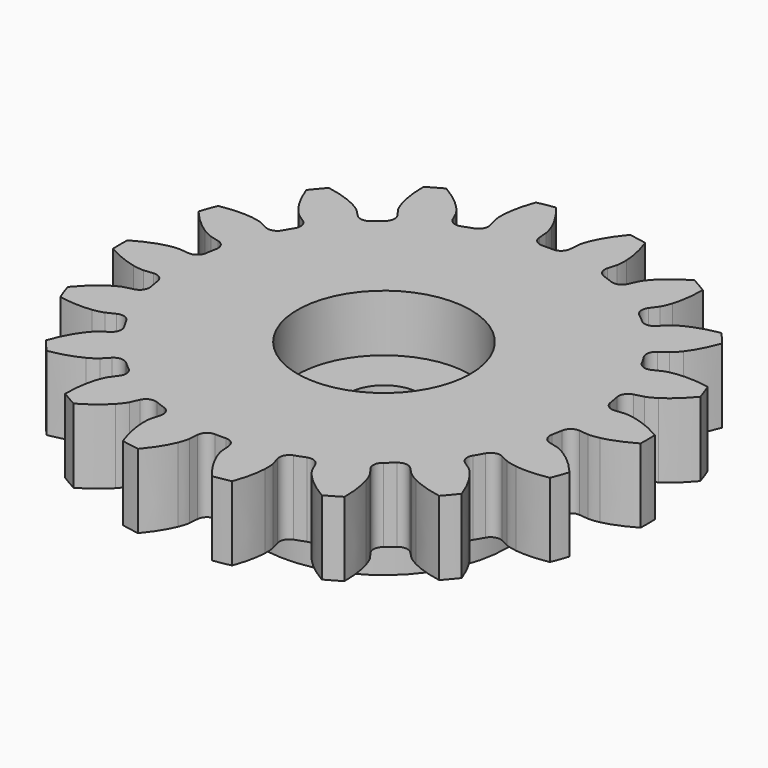
from build123d import *

# Parameters (mm, degrees)
CYLINDER004_R     = 1.45
CYLINDER004_DEPTH = 10
CYLINDER003_R     = 3.5
CYLINDER003_DEPTH = 2.3
CYLINDER_R        = 1.45
CYLINDER_DEPTH    = 10
EXTRUDE_DEPTH     = 3
CYLINDER002_R     = 2.5
CYLINDER002_DEPTH = 2.7
CYLINDER001_R     = 5
CYLINDER001_DEPTH = 2.7


with BuildPart() as obj1:
    # Cylinder004 → Cylinder004 (new body)
    with BuildSketch(Plane.XY.offset(-2)):
        Circle(CYLINDER004_R)
    extrude(amount=CYLINDER004_DEPTH)


with BuildPart() as cilindro_superior:
    # Cylinder003 → Cylinder003 (new body)
    with BuildSketch(Plane.XY.offset(0.7)):
        Circle(CYLINDER003_R)
    extrude(amount=CYLINDER003_DEPTH)


with BuildPart() as cilindro:
    # Cylinder → Cylinder (new body)
    with BuildSketch(Plane.XY.offset(-2)):
        Circle(CYLINDER_R)
    extrude(amount=CYLINDER_DEPTH)


with BuildPart() as cut002:
    # InvoluteGear → Extrude (new body)
    with BuildSketch(Plane.XY):
        with BuildLine():
            Line((8.612552, -0.883027), (8.992822, -0.921204))
            add(Edge.make_bspline(
                [(8.992822, -0.921204), (9.041564, -0.923074), (9.188211, -0.922532), (9.433139, -0.86888)],
                knots=[0, 0, 0, 0, 1, 1, 1, 1], degree=3))
            add(Edge.make_bspline(
                [(9.433139, -0.86888), (9.725891, -0.803665), (10.146415, -0.663171), (10.662031, -0.363025)],
                knots=[0, 0, 0, 0, 1, 1, 1, 1], degree=3))
            ThreePointArc((10.662031, -0.363025), (10.66821, 0), (10.662031, 0.363025))
            add(Edge.make_bspline(
                [(10.662031, 0.363025), (10.146415, 0.663171), (9.725891, 0.803665), (9.433139, 0.86888)],
                knots=[0, 0, 0, 0, 1, 1, 1, 1], degree=3))
            add(Edge.make_bspline(
                [(9.433139, 0.86888), (9.188211, 0.922532), (9.041564, 0.923074), (8.992822, 0.921204)],
                knots=[0, 0, 0, 0, 1, 1, 1, 1], degree=3))
            Line((8.992822, 0.921204), (8.612552, 0.883027))
            ThreePointArc((8.612552, 0.883027), (8.326615, 0.964857), (8.176195, 1.22143))
            ThreePointArc((8.176195, 1.22143), (8.141332, 1.435536), (8.100863, 1.648654))
            ThreePointArc((8.100863, 1.648654), (8.154459, 1.941201), (8.395165, 2.115893))
            Line((8.395165, 2.115893), (8.765559, 2.210078))
            add(Edge.make_bspline(
                [(8.765559, 2.210078), (8.812001, 2.224991), (8.949619, 2.275657), (9.161426, 2.409844)],
                knots=[0, 0, 0, 0, 1, 1, 1, 1], degree=3))
            add(Edge.make_bspline(
                [(9.161426, 2.409844), (9.414218, 2.571253), (9.761329, 2.847101), (10.143193, 3.305497)],
                knots=[0, 0, 0, 0, 1, 1, 1, 1], degree=3))
            ThreePointArc((10.143193, 3.305497), (10.024838, 3.648743), (9.89487, 3.987761))
            add(Edge.make_bspline(
                [(9.89487, 3.987761), (9.307694, 4.093455), (8.864479, 4.081649), (8.567077, 4.042804)],
                knots=[0, 0, 0, 0, 1, 1, 1, 1], degree=3))
            add(Edge.make_bspline(
                [(8.567077, 4.042804), (8.31857, 4.00945), (8.180581, 3.959803), (8.135418, 3.941375)],
                knots=[0, 0, 0, 0, 1, 1, 1, 1], degree=3))
            Line((8.135418, 3.941375), (7.791139, 3.77544))
            ThreePointArc((7.791139, 3.77544), (7.494458, 3.754539), (7.265356, 3.944192))
            ThreePointArc((7.265356, 3.944192), (7.159367, 4.133462), (7.048449, 4.319887))
            ThreePointArc((7.048449, 4.319887), (6.998755, 4.613122), (7.165196, 4.859604))
            Line((7.165196, 4.859604), (7.48104, 5.074791))
            add(Edge.make_bspline(
                [(7.48104, 5.074791), (7.519581, 5.104689), (7.63157, 5.199368), (7.784709, 5.397905)],
                knots=[0, 0, 0, 0, 1, 1, 1, 1], degree=3))
            add(Edge.make_bspline(
                [(7.784709, 5.397905), (7.967051, 5.636039), (8.198883, 6.013971), (8.400937, 6.575328)],
                knots=[0, 0, 0, 0, 1, 1, 1, 1], degree=3))
            ThreePointArc((8.400937, 6.575328), (8.172323, 6.857393), (7.934241, 7.131515))
            add(Edge.make_bspline(
                [(7.934241, 7.131515), (7.346327, 7.030008), (6.933879, 6.867326), (6.667699, 6.729106)],
                knots=[0, 0, 0, 0, 1, 1, 1, 1], degree=3))
            add(Edge.make_bspline(
                [(6.667699, 6.729106), (6.445586, 6.612769), (6.332899, 6.518921), (6.296763, 6.486158)],
                knots=[0, 0, 0, 0, 1, 1, 1, 1], degree=3))
            Line((6.296763, 6.486158), (6.029999, 6.21248))
            ThreePointArc((6.029999, 6.21248), (5.758359, 6.091368), (5.478208, 6.191226))
            ThreePointArc((5.478208, 6.191226), (5.313877, 6.332832), (5.145887, 6.470077))
            ThreePointArc((5.145887, 6.470077), (4.998898, 6.728632), (5.071, 7.017176))
            Line((5.071, 7.017176), (5.294197, 7.32741))
            add(Edge.make_bspline(
                [(5.294197, 7.32741), (5.320188, 7.368687), (5.393042, 7.495958), (5.469042, 7.734898)],
                knots=[0, 0, 0, 0, 1, 1, 1, 1], degree=3))
            add(Edge.make_bspline(
                [(5.469042, 7.734898), (5.55894, 8.021037), (5.647531, 8.455468), (5.645404, 9.052077)],
                knots=[0, 0, 0, 0, 1, 1, 1, 1], degree=3))
            ThreePointArc((5.645404, 9.052077), (5.334105, 9.238941), (5.016626, 9.415102))
            add(Edge.make_bspline(
                [(5.016626, 9.415102), (4.498885, 9.118639), (4.166951, 8.824702), (3.964098, 8.603778)],
                knots=[0, 0, 0, 0, 1, 1, 1, 1], degree=3))
            add(Edge.make_bspline(
                [(3.964098, 8.603778), (3.79517, 8.41849), (3.721376, 8.291761), (3.698625, 8.248614)],
                knots=[0, 0, 0, 0, 1, 1, 1, 1], degree=3))
            Line((3.698625, 8.248614), (3.541553, 7.900202))
            ThreePointArc((3.541553, 7.900202), (3.327717, 7.693488), (3.030308, 7.691507))
            ThreePointArc((3.030308, 7.691507), (2.827455, 7.768368), (2.622655, 7.839881))
            ThreePointArc((2.622655, 7.839881), (2.3961, 8.032569), (2.365165, 8.328372))
            Line((2.365165, 8.328372), (2.468796, 8.696235))
            add(Edge.make_bspline(
                [(2.468796, 8.696235), (2.479102, 8.743912), (2.504033, 8.888426), (2.493727, 9.138949)],
                knots=[0, 0, 0, 0, 1, 1, 1, 1], degree=3))
            add(Edge.make_bspline(
                [(2.493727, 9.138949), (2.480339, 9.438578), (2.415003, 9.87711), (2.208952, 10.437012)],
                knots=[0, 0, 0, 0, 1, 1, 1, 1], degree=3))
            ThreePointArc((2.208952, 10.437012), (1.852515, 10.506136), (1.493932, 10.563089))
            add(Edge.make_bspline(
                [(1.493932, 10.563089), (1.10881, 10.107427), (0.897428, 9.717688), (0.782368, 9.440708)],
                knots=[0, 0, 0, 0, 1, 1, 1, 1], degree=3))
            add(Edge.make_bspline(
                [(0.782368, 9.440708), (0.687, 9.208818), (0.661, 9.064492), (0.654378, 9.016166)],
                knots=[0, 0, 0, 0, 1, 1, 1, 1], degree=3))
            Line((0.654378, 9.016166), (0.625943, 8.635044))
            ThreePointArc((0.625943, 8.635044), (0.495703, 8.36766), (0.216907, 8.264079))
            ThreePointArc((0.216907, 8.264079), (0, 8.266925), (-0.216907, 8.264079))
            ThreePointArc((-0.216907, 8.264079), (-0.495703, 8.36766), (-0.625943, 8.635044))
            Line((-0.625943, 8.635044), (-0.654378, 9.016166))
            add(Edge.make_bspline(
                [(-0.654378, 9.016166), (-0.661, 9.064492), (-0.687, 9.208818), (-0.782368, 9.440708)],
                knots=[0, 0, 0, 0, 1, 1, 1, 1], degree=3))
            add(Edge.make_bspline(
                [(-0.782368, 9.440708), (-0.897428, 9.717688), (-1.10881, 10.107427), (-1.493932, 10.563089)],
                knots=[0, 0, 0, 0, 1, 1, 1, 1], degree=3))
            ThreePointArc((-1.493932, 10.563089), (-1.852515, 10.506136), (-2.208952, 10.437012))
            add(Edge.make_bspline(
                [(-2.208952, 10.437012), (-2.415003, 9.87711), (-2.480339, 9.438578), (-2.493727, 9.138949)],
                knots=[0, 0, 0, 0, 1, 1, 1, 1], degree=3))
            add(Edge.make_bspline(
                [(-2.493727, 9.138949), (-2.504033, 8.888426), (-2.479102, 8.743912), (-2.468796, 8.696235)],
                knots=[0, 0, 0, 0, 1, 1, 1, 1], degree=3))
            Line((-2.468796, 8.696235), (-2.365165, 8.328372))
            ThreePointArc((-2.365165, 8.328372), (-2.3961, 8.032569), (-2.622655, 7.839881))
            ThreePointArc((-2.622655, 7.839881), (-2.827455, 7.768368), (-3.030308, 7.691507))
            ThreePointArc((-3.030308, 7.691507), (-3.327717, 7.693488), (-3.541553, 7.900202))
            Line((-3.541553, 7.900202), (-3.698625, 8.248614))
            add(Edge.make_bspline(
                [(-3.698625, 8.248614), (-3.721376, 8.291761), (-3.79517, 8.41849), (-3.964098, 8.603778)],
                knots=[0, 0, 0, 0, 1, 1, 1, 1], degree=3))
            add(Edge.make_bspline(
                [(-3.964098, 8.603778), (-4.166951, 8.824702), (-4.498885, 9.118639), (-5.016626, 9.415102)],
                knots=[0, 0, 0, 0, 1, 1, 1, 1], degree=3))
            ThreePointArc((-5.016626, 9.415102), (-5.334105, 9.238941), (-5.645404, 9.052077))
            add(Edge.make_bspline(
                [(-5.645404, 9.052077), (-5.647531, 8.455468), (-5.55894, 8.021037), (-5.469042, 7.734898)],
                knots=[0, 0, 0, 0, 1, 1, 1, 1], degree=3))
            add(Edge.make_bspline(
                [(-5.469042, 7.734898), (-5.393042, 7.495958), (-5.320188, 7.368687), (-5.294197, 7.32741)],
                knots=[0, 0, 0, 0, 1, 1, 1, 1], degree=3))
            Line((-5.294197, 7.32741), (-5.071, 7.017176))
            ThreePointArc((-5.071, 7.017176), (-4.998898, 6.728632), (-5.145887, 6.470077))
            ThreePointArc((-5.145887, 6.470077), (-5.313877, 6.332832), (-5.478208, 6.191226))
            ThreePointArc((-5.478208, 6.191226), (-5.758359, 6.091368), (-6.029999, 6.21248))
            Line((-6.029999, 6.21248), (-6.296763, 6.486158))
            add(Edge.make_bspline(
                [(-6.296763, 6.486158), (-6.332899, 6.518921), (-6.445586, 6.612769), (-6.667699, 6.729106)],
                knots=[0, 0, 0, 0, 1, 1, 1, 1], degree=3))
            add(Edge.make_bspline(
                [(-6.667699, 6.729106), (-6.933879, 6.867326), (-7.346327, 7.030008), (-7.934241, 7.131515)],
                knots=[0, 0, 0, 0, 1, 1, 1, 1], degree=3))
            ThreePointArc((-7.934241, 7.131515), (-8.172323, 6.857393), (-8.400937, 6.575328))
            add(Edge.make_bspline(
                [(-8.400937, 6.575328), (-8.198883, 6.013971), (-7.967051, 5.636039), (-7.784709, 5.397905)],
                knots=[0, 0, 0, 0, 1, 1, 1, 1], degree=3))
            add(Edge.make_bspline(
                [(-7.784709, 5.397905), (-7.63157, 5.199368), (-7.519581, 5.104689), (-7.48104, 5.074791)],
                knots=[0, 0, 0, 0, 1, 1, 1, 1], degree=3))
            Line((-7.48104, 5.074791), (-7.165196, 4.859604))
            ThreePointArc((-7.165196, 4.859604), (-6.998755, 4.613122), (-7.048449, 4.319887))
            ThreePointArc((-7.048449, 4.319887), (-7.159367, 4.133463), (-7.265356, 3.944192))
            ThreePointArc((-7.265356, 3.944192), (-7.494458, 3.754539), (-7.791139, 3.77544))
            Line((-7.791139, 3.77544), (-8.135418, 3.941375))
            add(Edge.make_bspline(
                [(-8.135418, 3.941375), (-8.180581, 3.959803), (-8.31857, 4.00945), (-8.567077, 4.042804)],
                knots=[0, 0, 0, 0, 1, 1, 1, 1], degree=3))
            add(Edge.make_bspline(
                [(-8.567077, 4.042804), (-8.864479, 4.081649), (-9.307694, 4.093455), (-9.89487, 3.987761)],
                knots=[0, 0, 0, 0, 1, 1, 1, 1], degree=3))
            ThreePointArc((-9.89487, 3.987761), (-10.024838, 3.648743), (-10.143193, 3.305497))
            add(Edge.make_bspline(
                [(-10.143193, 3.305497), (-9.761329, 2.847101), (-9.414218, 2.571253), (-9.161426, 2.409844)],
                knots=[0, 0, 0, 0, 1, 1, 1, 1], degree=3))
            add(Edge.make_bspline(
                [(-9.161426, 2.409844), (-8.949619, 2.275657), (-8.812001, 2.224991), (-8.765559, 2.210078)],
                knots=[0, 0, 0, 0, 1, 1, 1, 1], degree=3))
            Line((-8.765559, 2.210078), (-8.395165, 2.115893))
            ThreePointArc((-8.395165, 2.115893), (-8.154459, 1.941201), (-8.100863, 1.648654))
            ThreePointArc((-8.100863, 1.648654), (-8.141332, 1.435536), (-8.176195, 1.22143))
            ThreePointArc((-8.176195, 1.22143), (-8.326615, 0.964857), (-8.612552, 0.883027))
            Line((-8.612552, 0.883027), (-8.992822, 0.921204))
            add(Edge.make_bspline(
                [(-8.992822, 0.921204), (-9.041564, 0.923074), (-9.188211, 0.922532), (-9.433139, 0.86888)],
                knots=[0, 0, 0, 0, 1, 1, 1, 1], degree=3))
            add(Edge.make_bspline(
                [(-9.433139, 0.86888), (-9.725891, 0.803665), (-10.146415, 0.663171), (-10.662031, 0.363025)],
                knots=[0, 0, 0, 0, 1, 1, 1, 1], degree=3))
            ThreePointArc((-10.662031, 0.363025), (-10.66821, 0), (-10.662031, -0.363025))
            add(Edge.make_bspline(
                [(-10.662031, -0.363025), (-10.146415, -0.663171), (-9.725891, -0.803665), (-9.433139, -0.86888)],
                knots=[0, 0, 0, 0, 1, 1, 1, 1], degree=3))
            add(Edge.make_bspline(
                [(-9.433139, -0.86888), (-9.188211, -0.922532), (-9.041564, -0.923074), (-8.992822, -0.921204)],
                knots=[0, 0, 0, 0, 1, 1, 1, 1], degree=3))
            Line((-8.992822, -0.921204), (-8.612552, -0.883027))
            ThreePointArc((-8.612552, -0.883027), (-8.326615, -0.964857), (-8.176195, -1.22143))
            ThreePointArc((-8.176195, -1.22143), (-8.141332, -1.435536), (-8.100863, -1.648654))
            ThreePointArc((-8.100863, -1.648654), (-8.154459, -1.941201), (-8.395165, -2.115893))
            Line((-8.395165, -2.115893), (-8.765559, -2.210078))
            add(Edge.make_bspline(
                [(-8.765559, -2.210078), (-8.812001, -2.224991), (-8.949619, -2.275657), (-9.161426, -2.409844)],
                knots=[0, 0, 0, 0, 1, 1, 1, 1], degree=3))
            add(Edge.make_bspline(
                [(-9.161426, -2.409844), (-9.414218, -2.571253), (-9.761329, -2.847101), (-10.143193, -3.305497)],
                knots=[0, 0, 0, 0, 1, 1, 1, 1], degree=3))
            ThreePointArc((-10.143193, -3.305497), (-10.024838, -3.648743), (-9.89487, -3.987761))
            add(Edge.make_bspline(
                [(-9.89487, -3.987761), (-9.307694, -4.093455), (-8.864479, -4.081649), (-8.567077, -4.042804)],
                knots=[0, 0, 0, 0, 1, 1, 1, 1], degree=3))
            add(Edge.make_bspline(
                [(-8.567077, -4.042804), (-8.31857, -4.00945), (-8.180581, -3.959803), (-8.135418, -3.941375)],
                knots=[0, 0, 0, 0, 1, 1, 1, 1], degree=3))
            Line((-8.135418, -3.941375), (-7.791139, -3.77544))
            ThreePointArc((-7.791139, -3.77544), (-7.494458, -3.754539), (-7.265356, -3.944192))
            ThreePointArc((-7.265356, -3.944192), (-7.159367, -4.133462), (-7.048449, -4.319887))
            ThreePointArc((-7.048449, -4.319887), (-6.998755, -4.613122), (-7.165196, -4.859604))
            Line((-7.165196, -4.859604), (-7.48104, -5.074791))
            add(Edge.make_bspline(
                [(-7.48104, -5.074791), (-7.519581, -5.104689), (-7.63157, -5.199368), (-7.784709, -5.397905)],
                knots=[0, 0, 0, 0, 1, 1, 1, 1], degree=3))
            add(Edge.make_bspline(
                [(-7.784709, -5.397905), (-7.967051, -5.636039), (-8.198883, -6.013971), (-8.400937, -6.575328)],
                knots=[0, 0, 0, 0, 1, 1, 1, 1], degree=3))
            ThreePointArc((-8.400937, -6.575328), (-8.172323, -6.857393), (-7.934241, -7.131515))
            add(Edge.make_bspline(
                [(-7.934241, -7.131515), (-7.346327, -7.030008), (-6.933879, -6.867326), (-6.667699, -6.729106)],
                knots=[0, 0, 0, 0, 1, 1, 1, 1], degree=3))
            add(Edge.make_bspline(
                [(-6.667699, -6.729106), (-6.445586, -6.612769), (-6.332899, -6.518921), (-6.296763, -6.486158)],
                knots=[0, 0, 0, 0, 1, 1, 1, 1], degree=3))
            Line((-6.296763, -6.486158), (-6.029999, -6.21248))
            ThreePointArc((-6.029999, -6.21248), (-5.758359, -6.091368), (-5.478208, -6.191226))
            ThreePointArc((-5.478208, -6.191226), (-5.313877, -6.332832), (-5.145887, -6.470077))
            ThreePointArc((-5.145887, -6.470077), (-4.998898, -6.728632), (-5.071, -7.017176))
            Line((-5.071, -7.017176), (-5.294197, -7.32741))
            add(Edge.make_bspline(
                [(-5.294197, -7.32741), (-5.320188, -7.368687), (-5.393042, -7.495958), (-5.469042, -7.734898)],
                knots=[0, 0, 0, 0, 1, 1, 1, 1], degree=3))
            add(Edge.make_bspline(
                [(-5.469042, -7.734898), (-5.55894, -8.021037), (-5.647531, -8.455468), (-5.645404, -9.052077)],
                knots=[0, 0, 0, 0, 1, 1, 1, 1], degree=3))
            ThreePointArc((-5.645404, -9.052077), (-5.334105, -9.238941), (-5.016626, -9.415102))
            add(Edge.make_bspline(
                [(-5.016626, -9.415102), (-4.498885, -9.118639), (-4.166951, -8.824702), (-3.964098, -8.603778)],
                knots=[0, 0, 0, 0, 1, 1, 1, 1], degree=3))
            add(Edge.make_bspline(
                [(-3.964098, -8.603778), (-3.79517, -8.41849), (-3.721376, -8.291761), (-3.698625, -8.248614)],
                knots=[0, 0, 0, 0, 1, 1, 1, 1], degree=3))
            Line((-3.698625, -8.248614), (-3.541553, -7.900202))
            ThreePointArc((-3.541553, -7.900202), (-3.327717, -7.693488), (-3.030308, -7.691507))
            ThreePointArc((-3.030308, -7.691507), (-2.827455, -7.768368), (-2.622655, -7.839881))
            ThreePointArc((-2.622655, -7.839881), (-2.3961, -8.032569), (-2.365165, -8.328372))
            Line((-2.365165, -8.328372), (-2.468796, -8.696235))
            add(Edge.make_bspline(
                [(-2.468796, -8.696235), (-2.479102, -8.743912), (-2.504033, -8.888426), (-2.493727, -9.138949)],
                knots=[0, 0, 0, 0, 1, 1, 1, 1], degree=3))
            add(Edge.make_bspline(
                [(-2.493727, -9.138949), (-2.480339, -9.438578), (-2.415003, -9.87711), (-2.208952, -10.437012)],
                knots=[0, 0, 0, 0, 1, 1, 1, 1], degree=3))
            ThreePointArc((-2.208952, -10.437012), (-1.852515, -10.506136), (-1.493932, -10.563089))
            add(Edge.make_bspline(
                [(-1.493932, -10.563089), (-1.10881, -10.107427), (-0.897428, -9.717688), (-0.782368, -9.440708)],
                knots=[0, 0, 0, 0, 1, 1, 1, 1], degree=3))
            add(Edge.make_bspline(
                [(-0.782368, -9.440708), (-0.687, -9.208818), (-0.661, -9.064492), (-0.654378, -9.016166)],
                knots=[0, 0, 0, 0, 1, 1, 1, 1], degree=3))
            Line((-0.654378, -9.016166), (-0.625943, -8.635044))
            ThreePointArc((-0.625943, -8.635044), (-0.495703, -8.36766), (-0.216907, -8.264079))
            ThreePointArc((-0.216907, -8.264079), (0, -8.266925), (0.216907, -8.264079))
            ThreePointArc((0.216907, -8.264079), (0.495703, -8.36766), (0.625943, -8.635044))
            Line((0.625943, -8.635044), (0.654378, -9.016166))
            add(Edge.make_bspline(
                [(0.654378, -9.016166), (0.661, -9.064492), (0.687, -9.208818), (0.782368, -9.440708)],
                knots=[0, 0, 0, 0, 1, 1, 1, 1], degree=3))
            add(Edge.make_bspline(
                [(0.782368, -9.440708), (0.897428, -9.717688), (1.10881, -10.107427), (1.493932, -10.563089)],
                knots=[0, 0, 0, 0, 1, 1, 1, 1], degree=3))
            ThreePointArc((1.493932, -10.563089), (1.852515, -10.506136), (2.208952, -10.437012))
            add(Edge.make_bspline(
                [(2.208952, -10.437012), (2.415003, -9.87711), (2.480339, -9.438578), (2.493727, -9.138949)],
                knots=[0, 0, 0, 0, 1, 1, 1, 1], degree=3))
            add(Edge.make_bspline(
                [(2.493727, -9.138949), (2.504033, -8.888426), (2.479102, -8.743912), (2.468796, -8.696235)],
                knots=[0, 0, 0, 0, 1, 1, 1, 1], degree=3))
            Line((2.468796, -8.696235), (2.365165, -8.328372))
            ThreePointArc((2.365165, -8.328372), (2.3961, -8.032569), (2.622655, -7.839881))
            ThreePointArc((2.622655, -7.839881), (2.827455, -7.768368), (3.030308, -7.691507))
            ThreePointArc((3.030308, -7.691507), (3.327717, -7.693488), (3.541553, -7.900202))
            Line((3.541553, -7.900202), (3.698625, -8.248614))
            add(Edge.make_bspline(
                [(3.698625, -8.248614), (3.721376, -8.291761), (3.79517, -8.41849), (3.964098, -8.603778)],
                knots=[0, 0, 0, 0, 1, 1, 1, 1], degree=3))
            add(Edge.make_bspline(
                [(3.964098, -8.603778), (4.166951, -8.824702), (4.498885, -9.118639), (5.016626, -9.415102)],
                knots=[0, 0, 0, 0, 1, 1, 1, 1], degree=3))
            ThreePointArc((5.016626, -9.415102), (5.334105, -9.238941), (5.645404, -9.052077))
            add(Edge.make_bspline(
                [(5.645404, -9.052077), (5.647531, -8.455468), (5.55894, -8.021037), (5.469042, -7.734898)],
                knots=[0, 0, 0, 0, 1, 1, 1, 1], degree=3))
            add(Edge.make_bspline(
                [(5.469042, -7.734898), (5.393042, -7.495958), (5.320188, -7.368687), (5.294197, -7.32741)],
                knots=[0, 0, 0, 0, 1, 1, 1, 1], degree=3))
            Line((5.294197, -7.32741), (5.071, -7.017176))
            ThreePointArc((5.071, -7.017176), (4.998898, -6.728632), (5.145887, -6.470077))
            ThreePointArc((5.145887, -6.470077), (5.313877, -6.332832), (5.478208, -6.191226))
            ThreePointArc((5.478208, -6.191226), (5.758359, -6.091368), (6.029999, -6.21248))
            Line((6.029999, -6.21248), (6.296763, -6.486158))
            add(Edge.make_bspline(
                [(6.296763, -6.486158), (6.332899, -6.518921), (6.445586, -6.612769), (6.667699, -6.729106)],
                knots=[0, 0, 0, 0, 1, 1, 1, 1], degree=3))
            add(Edge.make_bspline(
                [(6.667699, -6.729106), (6.933879, -6.867326), (7.346327, -7.030008), (7.934241, -7.131515)],
                knots=[0, 0, 0, 0, 1, 1, 1, 1], degree=3))
            ThreePointArc((7.934241, -7.131515), (8.172323, -6.857393), (8.400937, -6.575328))
            add(Edge.make_bspline(
                [(8.400937, -6.575328), (8.198883, -6.013971), (7.967051, -5.636039), (7.784709, -5.397905)],
                knots=[0, 0, 0, 0, 1, 1, 1, 1], degree=3))
            add(Edge.make_bspline(
                [(7.784709, -5.397905), (7.63157, -5.199368), (7.519581, -5.104689), (7.48104, -5.074791)],
                knots=[0, 0, 0, 0, 1, 1, 1, 1], degree=3))
            Line((7.48104, -5.074791), (7.165196, -4.859604))
            ThreePointArc((7.165196, -4.859604), (6.998755, -4.613122), (7.048449, -4.319887))
            ThreePointArc((7.048449, -4.319887), (7.159367, -4.133463), (7.265356, -3.944192))
            ThreePointArc((7.265356, -3.944192), (7.494458, -3.754539), (7.791139, -3.77544))
            Line((7.791139, -3.77544), (8.135418, -3.941375))
            add(Edge.make_bspline(
                [(8.135418, -3.941375), (8.180581, -3.959803), (8.31857, -4.00945), (8.567077, -4.042804)],
                knots=[0, 0, 0, 0, 1, 1, 1, 1], degree=3))
            add(Edge.make_bspline(
                [(8.567077, -4.042804), (8.864479, -4.081649), (9.307694, -4.093455), (9.89487, -3.987761)],
                knots=[0, 0, 0, 0, 1, 1, 1, 1], degree=3))
            ThreePointArc((9.89487, -3.987761), (10.024838, -3.648743), (10.143193, -3.305497))
            add(Edge.make_bspline(
                [(10.143193, -3.305497), (9.761329, -2.847101), (9.414218, -2.571253), (9.161426, -2.409844)],
                knots=[0, 0, 0, 0, 1, 1, 1, 1], degree=3))
            add(Edge.make_bspline(
                [(9.161426, -2.409844), (8.949619, -2.275657), (8.812001, -2.224991), (8.765559, -2.210078)],
                knots=[0, 0, 0, 0, 1, 1, 1, 1], degree=3))
            Line((8.765559, -2.210078), (8.395165, -2.115893))
            ThreePointArc((8.395165, -2.115893), (8.154459, -1.941201), (8.100863, -1.648654))
            ThreePointArc((8.100863, -1.648654), (8.141332, -1.435536), (8.176195, -1.22143))
            ThreePointArc((8.176195, -1.22143), (8.326615, -0.964857), (8.612552, -0.883027))
        make_face()
    extrude(amount=EXTRUDE_DEPTH)

    # Cut: cut Cilindro
    add(cilindro.part, mode=Mode.SUBTRACT)

    # Cut002: cut Cilindro superior
    add(cilindro_superior.part, mode=Mode.SUBTRACT)


with BuildPart() as cilindro_interior:
    # Cylinder002 → Cylinder002 (new body)
    with BuildSketch(Plane.XY.offset(-3.7)):
        Circle(CYLINDER002_R)
    extrude(amount=CYLINDER002_DEPTH)


with BuildPart() as engranaje_1_final:
    # Cylinder001 → Cylinder001 (new body)
    with BuildSketch(Plane.XY.offset(-2.7)):
        Circle(CYLINDER001_R)
    extrude(amount=CYLINDER001_DEPTH)

    # Cut001: cut Cilindro interior
    add(cilindro_interior.part, mode=Mode.SUBTRACT)

    # Fusion: union Cut002
    add(cut002.part)

    # Cut003: cut obj1
    add(obj1.part, mode=Mode.SUBTRACT)


solid = engranaje_1_final.part
